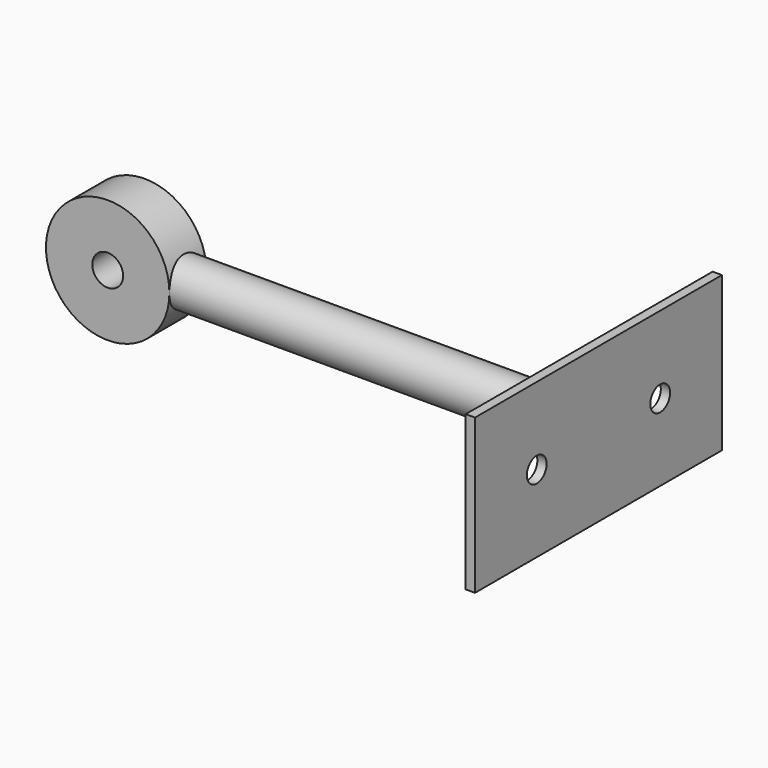
from build123d import *

# Parameters (mm, degrees)
F0_R     = 20
F0_R_2   = 5
F1_DEPTH = 7.5
F3_R     = 7.5
F4_DEPTH = 131.4595038823
F5_W     = 100
F5_H     = 50
F6_DEPTH = 3
F7_R     = 4
F8_DEPTH = 3


with BuildPart() as f1:
    # F0 (on Front) → F1 (new body, symmetric)
    with BuildSketch(Plane.XZ):
        Circle(F0_R)
        Circle(F0_R_2, mode=Mode.SUBTRACT)
    extrude(amount=F1_DEPTH, both=True)

    # F3 (on offset) → F4 (join, through all)
    with BuildSketch(Plane.YZ.offset(150)):
        Circle(F3_R)
    extrude(amount=-F4_DEPTH)

    # F5 (on offset) → F6 (join)
    with BuildSketch(Plane.YZ.offset(150)):
        Rectangle(F5_W, F5_H)
    extrude(amount=F6_DEPTH)

    # F7 (on face) → F8 (cut, through all)
    with BuildSketch(Plane.YZ.offset(153)):
        with Locations((-25, 0)):
            Circle(F7_R)
        with Locations((25, 0)):
            Circle(F7_R)
    extrude(amount=-F8_DEPTH, mode=Mode.SUBTRACT)


solid = f1.part
